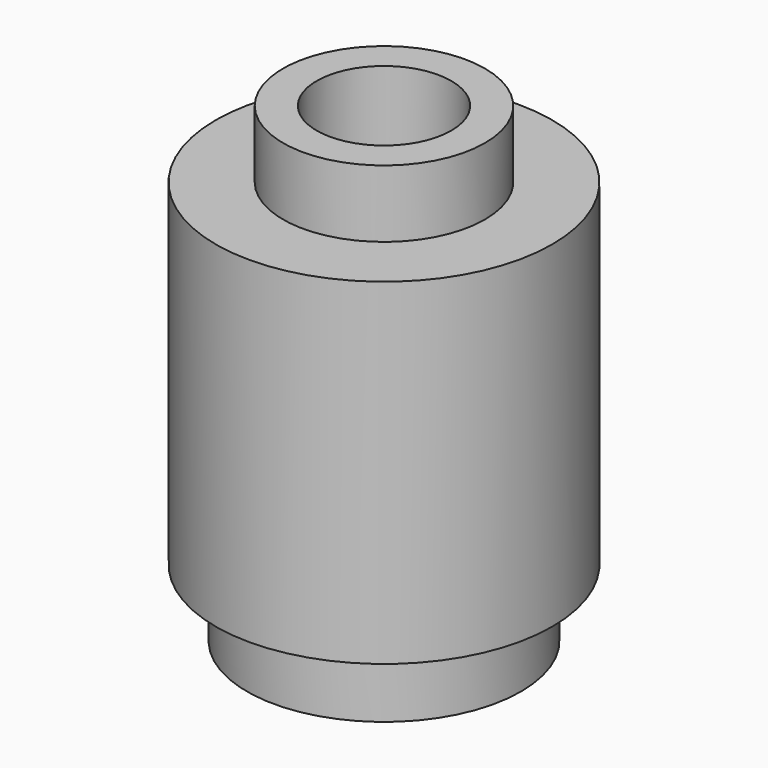
from build123d import *

# Parameters (mm, degrees)
F0_R     = 4
F0_R_2   = 2.4
F0_R_3   = 1.6
F1_DEPTH = 9.6
F2_DEPTH = 11.2
F3_DEPTH = 8
F4_R     = 4
F4_R_2   = 3.2568542495
F5_DEPTH = 1.5999999596


with BuildPart() as f1:
    # F0 (on Top) → F1 (new body)
    with BuildSketch(Plane.XY):
        Circle(F0_R)
        Circle(F0_R_2, mode=Mode.SUBTRACT)
        Circle(F0_R_2)
        Circle(F0_R_3, mode=Mode.SUBTRACT)
    extrude(amount=F1_DEPTH)

    # F0 (on Top) → F2 (join)
    with BuildSketch(Plane.XY):
        Circle(F0_R_2)
        Circle(F0_R_3, mode=Mode.SUBTRACT)
    extrude(amount=F2_DEPTH)

    # F0 (on Top) → F3 (cut, through all)
    with BuildSketch(Plane.XY):
        Circle(F0_R_2)
        Circle(F0_R_3, mode=Mode.SUBTRACT)
    extrude(amount=F3_DEPTH, mode=Mode.SUBTRACT)

    # F4 (on Top) → F5 (cut)
    with BuildSketch(Plane.XY):
        Circle(F4_R)
        Circle(F4_R_2, mode=Mode.SUBTRACT)
    extrude(amount=F5_DEPTH, mode=Mode.SUBTRACT)


solid = f1.part
